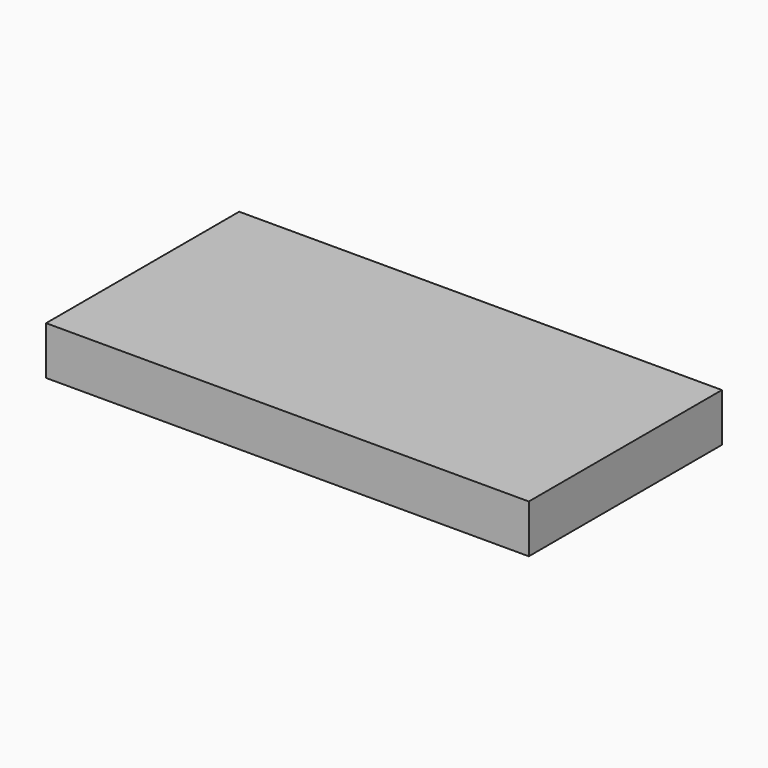
from build123d import *

# Parameters (mm, degrees)
BOX_W     = 100
BOX_H     = 50
BOX_DEPTH = 10


with BuildPart() as part:
    # Box → Box (new body)
    with BuildSketch(Plane.XY):
        with Locations((50, 25)):
            Rectangle(BOX_W, BOX_H)
    extrude(amount=BOX_DEPTH)


solid = part.part
